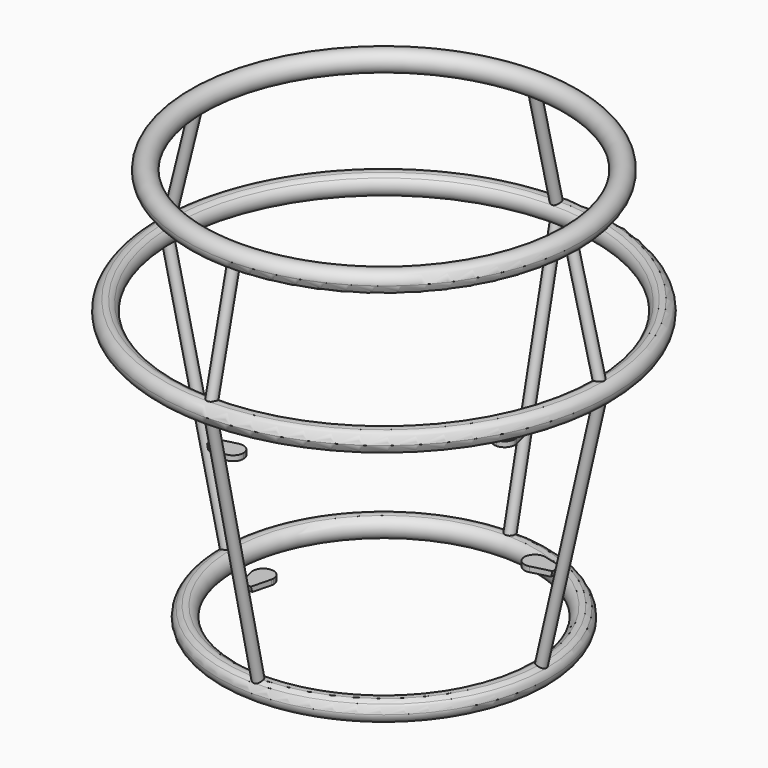
from build123d import *

# Parameters (mm, degrees)
F14_DEPTH = 25


with BuildPart() as f1:
    # F0 (on Front) → F1 (revolve)
    with BuildSketch(Plane.XZ):
        with BuildLine():
            ThreePointArc((182.4253562504, 110.2985749985), (184.8536277952, 111.256871428), (186.9511326268, 112.810997621))
            ThreePointArc((186.9511326268, 112.810997621), (189.2062838938, 116.0956003194), (190, 120))
            ThreePointArc((190, 120), (173.9793241138, 127.9844512569), (177.2497076253, 110.3856413707))
            ThreePointArc((177.2497076253, 110.3856413707), (179.8318006852, 110.0014146505), (182.4253562504, 110.2985749985))
        make_face()
    revolve(axis=Axis((0, 0, 276.8834233284), (0, 0, 1)))


with BuildPart() as f1b:
    # F0 (on Front) → F1, piece 2 (revolve)
    with BuildSketch(Plane.XZ):
        with BuildLine():
            ThreePointArc((212.9246155276, -9.5627728204), (218.0388480293, -5.9478502303), (220, 0))
            ThreePointArc((220, 0), (217.9844512569, 6.0206758862), (212.7502923747, 9.6143586293))
            ThreePointArc((212.7502923747, 9.6143586293), (210.1681993148, 9.9985853495), (207.5746437496, 9.7014250015))
            ThreePointArc((207.5746437496, 9.7014250015), (205.1463722048, 8.743128572), (203.0488673732, 7.189002379))
            ThreePointArc((203.0488673732, 7.189002379), (200.0004131293, -0.0908978236), (203.1807035707, -7.3141777535))
            ThreePointArc((203.1807035707, -7.3141777535), (205.3061139637, -8.8299169802), (207.751404933, -9.7439119569))
            ThreePointArc((207.751404933, -9.7439119569), (210.3499339402, -9.9938754364), (212.9246155276, -9.5627728204))
        make_face()
    revolve(axis=Axis((0, 0, 276.8834233284), (0, 0, 1)))


with BuildPart() as f1c:
    # F0 (on Front) → F1, piece 3 (revolve)
    with BuildSketch(Plane.XZ):
        with BuildLine():
            ThreePointArc((160, -260), (159.170413412, -256.0120785046), (156.8192964293, -252.6858222465))
            ThreePointArc((156.8192964293, -252.6858222465), (154.6938860363, -251.1700830198), (152.248595067, -250.2560880431))
            ThreePointArc((152.248595067, -250.2560880431), (149.6500660598, -250.0061245636), (147.0753844724, -250.4372271796))
            ThreePointArc((147.0753844724, -250.4372271796), (144.0521497697, -268.0388480293), (160, -260))
        make_face()
    revolve(axis=Axis((0, 0, 276.8834233284), (0, 0, 1)))


with BuildPart() as f2:
    # F0 (on Front) → F2 (revolve)
    with BuildSketch(Plane.XZ):
        with BuildLine():
            ThreePointArc((203.0488673732, 7.189002379), (205.1463722048, 8.743128572), (207.5746437496, 9.7014250015))
            Line((207.5746437496, 9.7014250015), (182.4253562504, 110.2985749985))
            ThreePointArc((182.4253562504, 110.2985749985), (179.8318006852, 110.0014146505), (177.2497076253, 110.3856413707))
            Line((177.2497076253, 110.3856413707), (203.0488673732, 7.189002379))
        make_face()
    revolve(axis=Axis((195, 0, 60), (0.242535625, 0, -0.9701425001)))


with BuildPart() as f3:
    # F0 (on Front) → F3 (revolve)
    with BuildSketch(Plane.XZ):
        with BuildLine():
            Line((152.248595067, -250.2560880431), (207.751404933, -9.7439119569))
            ThreePointArc((207.751404933, -9.7439119569), (205.3061139637, -8.8299169802), (203.1807035707, -7.3141777535))
            Line((203.1807035707, -7.3141777535), (147.0753844724, -250.4372271796))
            ThreePointArc((147.0753844724, -250.4372271796), (149.6500660598, -250.0061245636), (152.248595067, -250.2560880431))
        make_face()
    revolve(axis=Axis((180, 0, -130), (-0.2248595067, 0, -0.9743911957)))


with BuildPart() as f4:
    # F0 (on Front) → F4 (revolve)
    with BuildSketch(Plane.XZ):
        with BuildLine():
            Line((-207.5746437496, 9.7014250015), (-180.3031695313, 118.7873218748))
            Line((-180.3031695313, 118.7873218748), (-185.4570515633, 118.7873218748))
            Line((-185.4570515633, 118.7873218748), (-212.7502923747, 9.6143586293))
            ThreePointArc((-212.7502923747, 9.6143586293), (-210.1681993148, 9.9985853495), (-207.5746437496, 9.7014250015))
        make_face()
    revolve(axis=Axis((-193.7873218748, 0, 64.8507125007), (-0.242535625, 0, -0.9701425001)))


with BuildPart() as f5:
    # F0 (on Front) → F5 (revolve)
    with BuildSketch(Plane.XZ):
        with BuildLine():
            Line((-150.259453277, -258.8757024665), (-207.751404933, -9.7439119569))
            ThreePointArc((-207.751404933, -9.7439119569), (-210.3499339402, -9.9938754364), (-212.9246155276, -9.5627728204))
            Line((-212.9246155276, -9.5627728204), (-155.3908625324, -258.8757024665))
            Line((-155.3908625324, -258.8757024665), (-150.259453277, -258.8757024665))
        make_face()
    revolve(axis=Axis((-178.8757024665, 0, -134.8719559785), (0.2248595067, 0, -0.9743911957)))


with BuildPart() as f7:
    # F6 (on Right) → F7 (revolve)
    with BuildSketch(Plane.YZ):
        with BuildLine():
            Line((-186.9511326268, 112.810997621), (-212.7502923747, 9.6143586293))
            ThreePointArc((-212.7502923747, 9.6143586293), (-211.3885988813, 9.9031203742), (-210, 10))
            Line((-210, 10), (-207.5, 10))
            Line((-207.5, 10), (-182.4253562504, 110.2985749985))
            ThreePointArc((-182.4253562504, 110.2985749985), (-184.8536277952, 111.256871428), (-186.9511326268, 112.810997621))
        make_face()
    revolve(axis=Axis((0, -195, 60), (0, -0.242535625, -0.9701425001)))


with BuildPart() as f8:
    # F6 (on Right) → F8 (revolve)
    with BuildSketch(Plane.YZ):
        with BuildLine():
            Line((-207.6923076923, -10), (-210, -10))
            ThreePointArc((-210, -10), (-211.4785587231, -9.8900891858), (-212.9246155276, -9.5627728204))
            Line((-212.9246155276, -9.5627728204), (-156.8192964293, -252.6858222465))
            ThreePointArc((-156.8192964293, -252.6858222465), (-154.6938860363, -251.1700830198), (-152.248595067, -250.2560880431))
            Line((-152.248595067, -250.2560880431), (-207.6923076923, -10))
        make_face()
    revolve(axis=Axis((0, -180, -130), (0, 0.2248595067, -0.9743911957)))


with BuildPart() as f9:
    # F6 (on Right) → F9 (revolve)
    with BuildSketch(Plane.YZ):
        with BuildLine():
            Line((182.4253562504, 110.2985749985), (207.5, 10))
            Line((207.5, 10), (210, 10))
            ThreePointArc((210, 10), (211.3885988813, 9.9031203742), (212.7502923747, 9.6143586293))
            Line((212.7502923747, 9.6143586293), (186.9511326268, 112.810997621))
            ThreePointArc((186.9511326268, 112.810997621), (184.8536277952, 111.256871428), (182.4253562504, 110.2985749985))
        make_face()
    revolve(axis=Axis((0, 195, 60), (0, 0.242535625, -0.9701425001)))


with BuildPart() as f10:
    # F6 (on Right) → F10 (revolve)
    with BuildSketch(Plane.YZ):
        with BuildLine():
            Line((210, -10), (207.6923076923, -10))
            Line((207.6923076923, -10), (152.248595067, -250.2560880431))
            ThreePointArc((152.248595067, -250.2560880431), (154.6938860363, -251.1700830198), (156.8192964293, -252.6858222465))
            Line((156.8192964293, -252.6858222465), (212.9246155276, -9.5627728204))
            ThreePointArc((212.9246155276, -9.5627728204), (211.4785587231, -9.8900891858), (210, -10))
        make_face()
    revolve(axis=Axis((0, 180, -130), (0, -0.2248595067, -0.9743911957)))


with BuildPart() as f12:
    # F11 (on face) → F12 (revolve)
    with BuildSketch(Plane.YZ):
        Polygon((-166.7916676676, -165), (-165.6378215138, -170), (-135.6378215138, -170), (-135.6378215138, -165), align=None)
    revolve(axis=Axis((0, 0, 276.8834233284), (0, 0, 1)))

    # F13 (on face) → F14 (cut)
    with BuildSketch(Plane.XY.offset(-165)):
        with BuildLine():
            ThreePointArc((10, 145.6378215138), (7.0710678518, 138.5667537419), (1.13e-07, 135.6378215138))
            ThreePointArc((1.13e-07, 135.6378215138), (95.9104234177, 95.9104233378), (135.6378215138, 0))
            ThreePointArc((135.6378215138, 0), (139.4912670709, 7.8879571804), (148.0817952099, 9.6967516506))
            Line((148.0817952099, 9.6967516506), (166.7167070313, 5))
            ThreePointArc((166.7167070313, 5), (117.9395192532, 117.9395192532), (5, 166.7167070313))
            Line((5, 166.7167070313), (9.6967516506, 148.0817952099))
            ThreePointArc((9.6967516506, 148.0817952099), (9.9238983395, 146.8691791983), (10, 145.6378215138))
        make_face()
        with BuildLine():
            ThreePointArc((135.6378215138, 0), (95.9104232732, -95.9104234824), (-2.959e-07, -135.6378215138))
            ThreePointArc((-2.959e-07, -135.6378215138), (7.0710677072, -138.5667535973), (10, -145.6378215138))
            ThreePointArc((10, -145.6378215138), (9.9238983395, -146.8691791983), (9.6967516506, -148.0817952099))
            Line((9.6967516506, -148.0817952099), (5, -166.7167070313))
            ThreePointArc((5, -166.7167070313), (117.9395192532, -117.9395192532), (166.7167070313, -5))
            Line((166.7167070313, -5), (148.0817952099, -9.6967516506))
            ThreePointArc((148.0817952099, -9.6967516506), (139.4912670709, -7.8879571804), (135.6378215138, 0))
        make_face()
        with BuildLine():
            ThreePointArc((-2.959e-07, -135.6378215138), (-95.9104234824, -95.9104232732), (-135.6378215138, 0))
            ThreePointArc((-135.6378215138, 0), (-139.4912670709, -7.8879571804), (-148.0817952099, -9.6967516506))
            Line((-148.0817952099, -9.6967516506), (-166.7167070313, -5))
            ThreePointArc((-166.7167070313, -5), (-117.9395192532, -117.9395192532), (-5, -166.7167070313))
            Line((-5, -166.7167070313), (-9.6967516506, -148.0817952099))
            ThreePointArc((-9.6967516506, -148.0817952099), (-7.8879572714, -139.4912671876), (-2.959e-07, -135.6378215138))
        make_face()
        with BuildLine():
            ThreePointArc((-148.0817952099, 9.6967516506), (-139.4912670709, 7.8879571804), (-135.6378215138, 0))
            ThreePointArc((-135.6378215138, 0), (-95.9104233378, 95.9104234177), (1.13e-07, 135.6378215138))
            ThreePointArc((1.13e-07, 135.6378215138), (-7.8879571457, 139.4912670263), (-9.6967516506, 148.0817952099))
            Line((-9.6967516506, 148.0817952099), (-5, 166.7167070313))
            ThreePointArc((-5, 166.7167070313), (-117.9395192532, 117.9395192532), (-166.7167070313, 5))
            Line((-166.7167070313, 5), (-148.0817952099, 9.6967516506))
        make_face()
    extrude(amount=-F14_DEPTH, mode=Mode.SUBTRACT)


solid = Compound([f1.part, f1b.part, f1c.part, f2.part, f3.part, f4.part, f5.part, f7.part, f8.part, f9.part, f10.part, f12.part])
